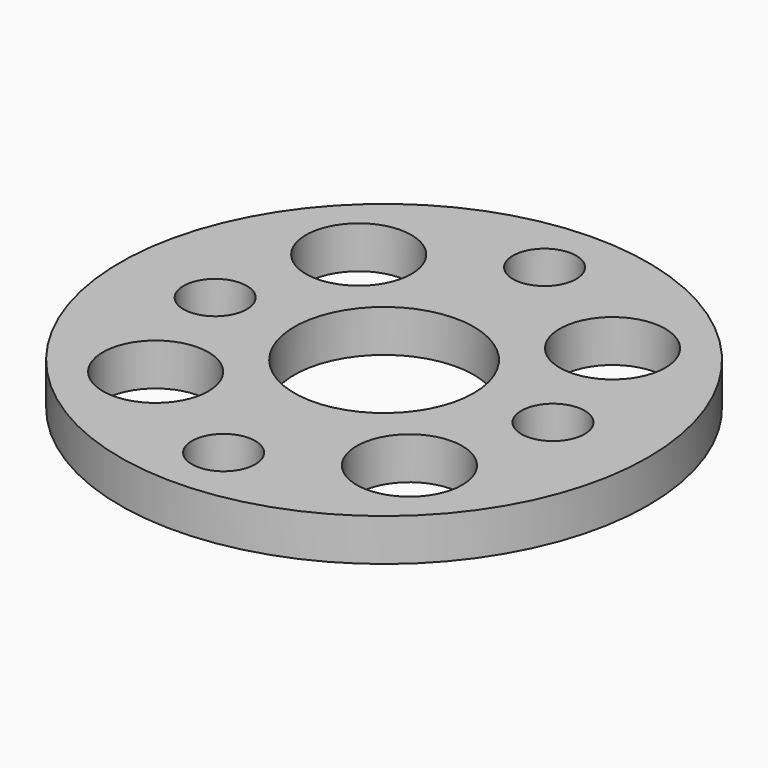
from build123d import *

# Parameters (mm, degrees)
F0_R     = 12.5
F0_R_2   = 2.5
F0_R_3   = 1.5
F0_R_4   = 4.25
F1_DEPTH = 2


with BuildPart() as f1:
    # F0 (on Top) → F1 (new body)
    with BuildSketch(Plane.XY):
        Circle(F0_R)
        with Locations((-6.010407, -6.010407)):
            Circle(F0_R_2, mode=Mode.SUBTRACT)
        with Locations((0, -9.5)):
            Circle(F0_R_3, mode=Mode.SUBTRACT)
        with Locations((6.010407, -6.010407)):
            Circle(F0_R_2, mode=Mode.SUBTRACT)
        with Locations((-8, 0)):
            Circle(F0_R_3, mode=Mode.SUBTRACT)
        with Locations((-6.010407, 6.010407)):
            Circle(F0_R_2, mode=Mode.SUBTRACT)
        Circle(F0_R_4, mode=Mode.SUBTRACT)
        with Locations((6.010407, 6.010407)):
            Circle(F0_R_2, mode=Mode.SUBTRACT)
        with Locations((8, 0)):
            Circle(F0_R_3, mode=Mode.SUBTRACT)
        with Locations((0, 9.5)):
            Circle(F0_R_3, mode=Mode.SUBTRACT)
    extrude(amount=F1_DEPTH)


solid = f1.part
